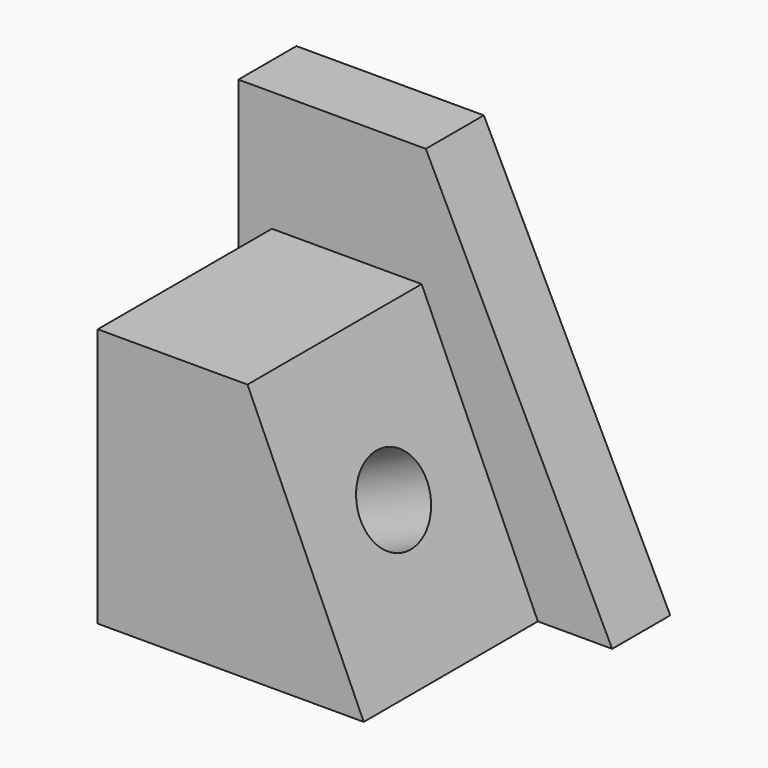
from build123d import *

# Parameters (mm, degrees)
F1_DEPTH = 12.7
F3_DEPTH = 25.4
F4_DEPTH = 12.7
F5_R     = 7.3111886468
F6_DEPTH = 28.448


with BuildPart() as f1:
    # F0 (on Front) → F1 (new body)
    with BuildSketch(Plane.XZ):
        Polygon((-65.437734127, 0), (0, 0), (-32.6272174716, 66.4458796382), (-65.437734127, 66.4458796382), align=None)
    extrude(amount=F1_DEPTH)

    # F2 (on face) → F3 (join)
    with BuildSketch(Plane.XZ.offset(12.7)):
        Polygon((-59.5721639693, 0), (-13.0142271519, 0), (-33.360414207, 45.3664921224), (-59.5721639693, 45.3664921224), align=None)
    extrude(amount=F3_DEPTH)

    # F4 (add): a face of the model
    f4_faces = [f1.faces().sort_by_distance(p)[0] for p in [
        (-40.9056812293, -38.1, 20.569190108),
    ]]
    extrude(f4_faces, amount=F4_DEPTH)

    # F5 (on face) → F6 (cut)
    with BuildSketch(Plane(origin=(-10.8349077523, 0, -4.8592926087), x_dir=(0, 1, 0), z_dir=(0.9124381131, 0, 0.4092147234))):
        with Locations((-31.3933752477, 30.4919779301)):
            Circle(F5_R)
    extrude(amount=-F6_DEPTH, mode=Mode.SUBTRACT)


solid = f1.part
